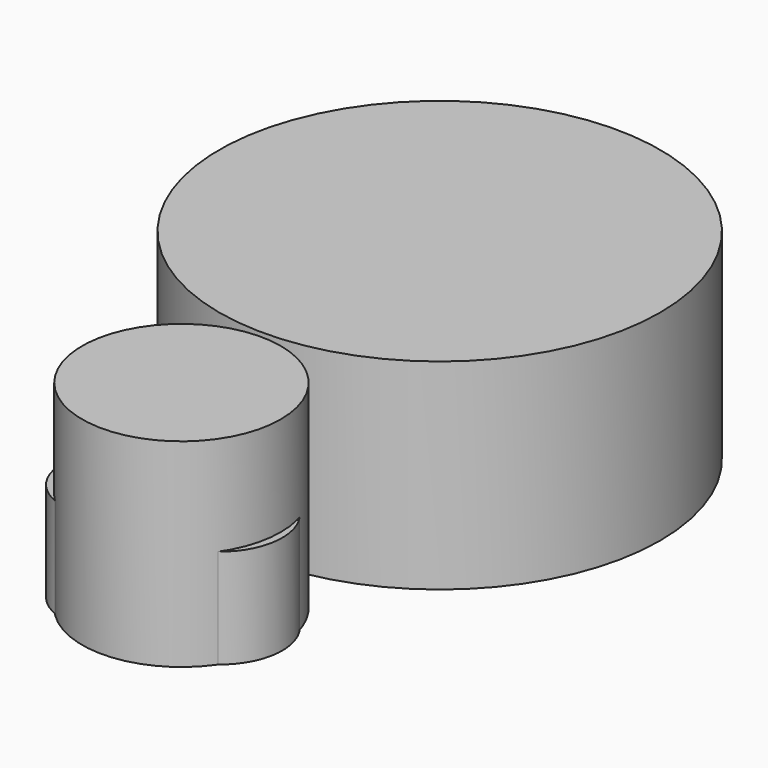
from build123d import *

# Parameters (mm, degrees)
F1_R     = 25
F2_DEPTH = 50
F0_R     = 25
F3_R     = 55.4700829566
F4_DEPTH = 37.87109
F5_R     = 6.3735231856
F5_R_2   = 5.1382942436
F6_DEPTH = 25
F7_DEPTH = 50.52546


with BuildPart() as f2:
    # F1 (on face) → F2 (new body)
    with BuildSketch(Plane.XY):
        with Locations((0, -68.0586513998)):
            Circle(F1_R)
    extrude(amount=F2_DEPTH)


with BuildPart() as f2b:
    # F0 (on Top) → F2, piece 2 (new body)
    with BuildSketch(Plane.XY):
        with Locations((0, -68.0586513998)):
            Circle(F0_R)
    extrude(amount=F2_DEPTH)


with BuildPart() as f4:
    # F3 (on Top) → F4 (new body)
    with BuildSketch(Plane.XY):
        with Locations((0, 13.1904222071)):
            Circle(F3_R)
    extrude(amount=F4_DEPTH)

    # F7 (add): a face of the model
    f7_faces = [f4.faces().sort_by_distance(p)[0] for p in [
        (0, 13.1904222071, 0),
    ]]
    extrude(f7_faces, amount=-F7_DEPTH)


with BuildPart() as f6:
    # F5 (on Top) → F6 (new body)
    with BuildSketch(Plane.XY):
        with BuildLine():
            ThreePointArc((-0.91149976, -80.1486454122), (0.8678235149, -76.3981207113), (1.4785570202, -72.2920969129))
            ThreePointArc((1.4785570202, -72.2920969129), (0.3482401963, -66.758983111), (-2.8615905806, -62.1124843378))
            ThreePointArc((-2.8615905806, -62.1124843378), (-4.7373627223, -71.4387986015), (-0.91149976, -80.1486454122))
        make_face()
        with BuildLine():
            ThreePointArc((-2.8615905806, -62.1124843378), (0.3482401963, -66.758983111), (1.4785570202, -72.2920969129))
            ThreePointArc((1.4785570202, -72.2920969129), (0.8678235149, -76.3981207113), (-0.91149976, -80.1486454122))
            ThreePointArc((-0.91149976, -80.1486454122), (16.5111622818, -84.5111608851), (26.7320689194, -69.7424858809))
            ThreePointArc((26.7320689194, -69.7424858809), (14.8913945195, -54.4617659522), (-2.8615905806, -62.1124843378))
        make_face()
        with Locations((8.402325213, -71.017280221)):
            Circle(F5_R, mode=Mode.SUBTRACT)
        with BuildLine():
            ThreePointArc((-0.91149976, -80.1486454122), (-4.7373627223, -71.4387986015), (-2.8615905806, -62.1124843378))
            ThreePointArc((-2.8615905806, -62.1124843378), (-26.6556478788, -73.8086292163), (-0.91149976, -80.1486454122))
        make_face()
        with Locations((-12.6294186339, -72.2920969129)):
            Circle(F5_R_2, mode=Mode.SUBTRACT)
    extrude(amount=F6_DEPTH)


solid = Compound([f2.part, f2b.part, f4.part, f6.part])
